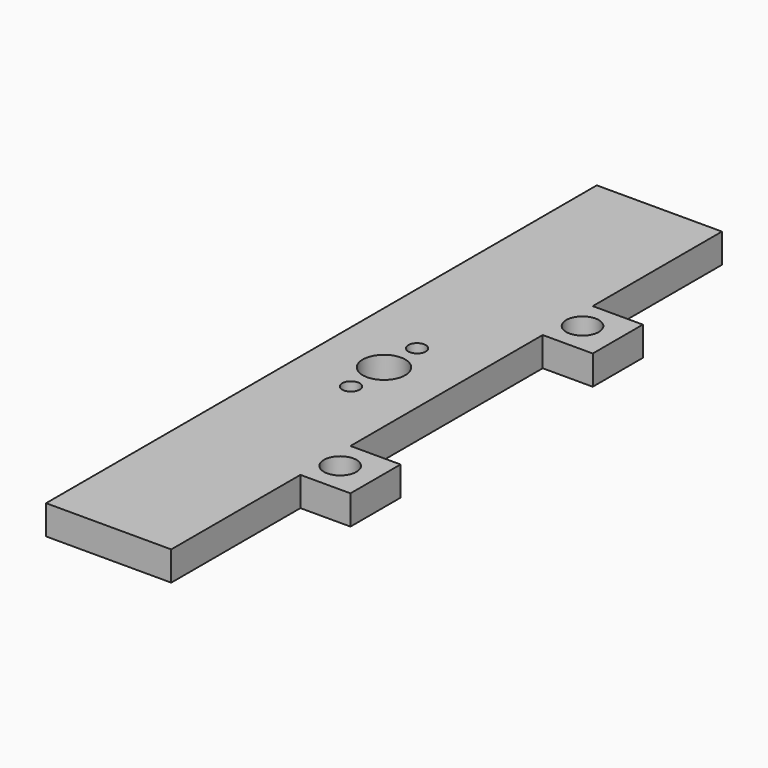
from build123d import *

# Parameters (mm, degrees)
F1_DEPTH = 2.9718
F2_R     = 1.651
F2_R_2   = 2.159
F2_R_3   = 0.889
F3_DEPTH = 25.4


with BuildPart() as f1:
    # F0 (on Top) → F1 (new body)
    with BuildSketch(Plane.XY):
        Polygon((0, 69.85), (0, 0), (12.7, 0), (12.7, 16.383), (17.78, 16.383), (17.78, 22.733), (12.7, 22.733), (12.7, 47.117), (17.78, 47.117), (17.78, 53.467), (12.7, 53.467), (12.7, 69.85), align=None)
    extrude(amount=F1_DEPTH)

    # F2 (on face) → F3 (cut)
    with BuildSketch(Plane.XY.offset(2.9718)):
        with Locations((14.1986, 50.292)):
            Circle(F2_R)
        with Locations((14.1986, 19.558)):
            Circle(F2_R)
        with Locations((6.35, 34.925)):
            Circle(F2_R_2)
        with Locations((6.35, 39.116)):
            Circle(F2_R_3)
        with Locations((6.35, 30.734)):
            Circle(F2_R_3)
    extrude(amount=-F3_DEPTH, mode=Mode.SUBTRACT)


solid = f1.part
